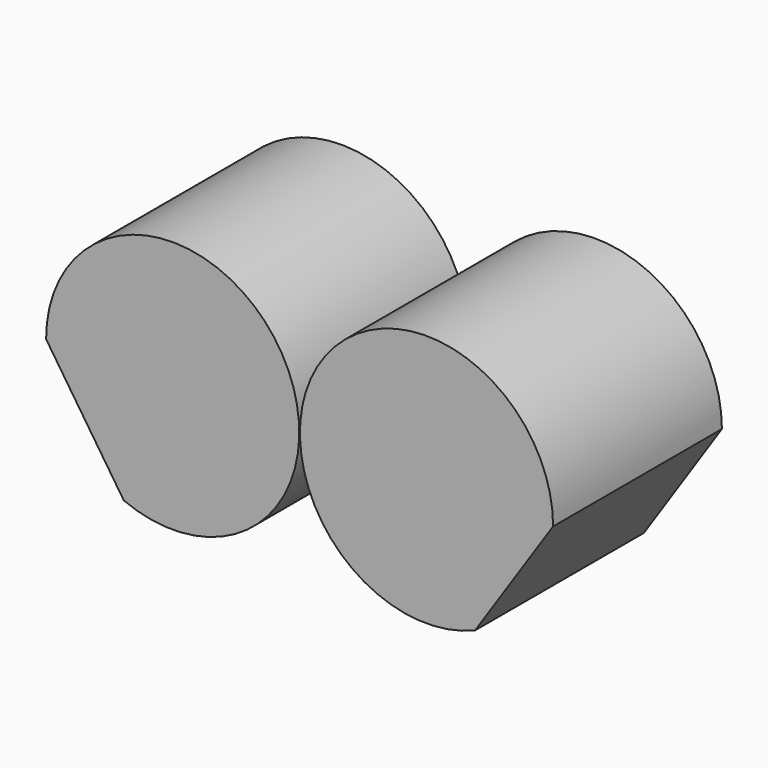
from build123d import *

# Parameters (mm, degrees)
F1_DEPTH = 25


with BuildPart() as f1:
    # F0 (on Front) → F1 (new body)
    with BuildSketch(Plane.XZ):
        with BuildLine():
            Line((-29.993658, 0), (-20.783397, -13.837591))
            ThreePointArc((-20.783397, -13.837591), (-2.506744, 8.311255), (-29.993658, 0))
        make_face()
        with BuildLine():
            ThreePointArc((30.083929, 0), (2.608554, 8.328566), (20.835262, -13.853598))
            Line((20.835262, -13.853598), (30.083929, 0))
        make_face()
    extrude(amount=F1_DEPTH)


solid = f1.part
